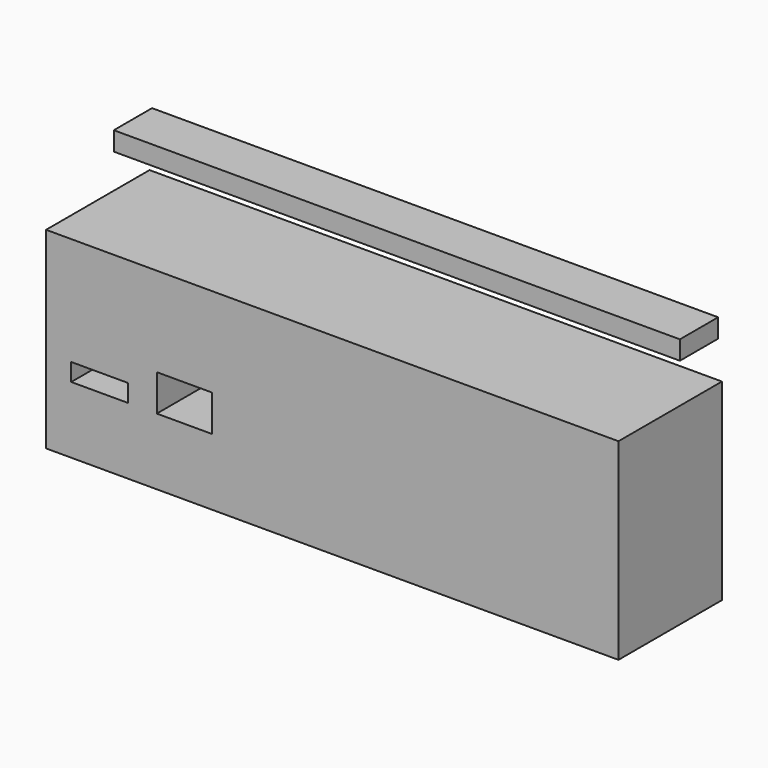
from build123d import *

# Parameters (mm, degrees)
F0_W     = 127.7352720499
F0_H     = 42.9527387023
F0_W_2   = 12.6331597567
F0_H_2   = 3.9303160738
F0_W_3   = 12.3524200171
F0_H_3   = 8.1413685839
F1_DEPTH = 10.16
F2_W     = 126.3315826654
F2_H     = 4.2110495269
F3_DEPTH = 10.668
F4_R     = 3.4268290795
F5_DEPTH = 1.778
F6_DEPTH = 3.5189203918
F7_DEPTH = 28.8555743173


with BuildPart() as f1:
    # F0 (on Front) → F1 (new body)
    with BuildSketch(Plane.XZ):
        Rectangle(F0_W, F0_H)
        with Locations((-51.9363172352, -4.6321580885)):
            Rectangle(F0_W_2, F0_H_2, mode=Mode.SUBTRACT)
        with Locations((-32.9865785316, -2.5266318335)):
            Rectangle(F0_W_3, F0_H_3, mode=Mode.SUBTRACT)
    extrude(amount=F1_DEPTH)

    # F6 (add): a face of the model
    f6_faces = [f1.faces().sort_by_distance(p)[0] for p in [
        (63.867636025, -5.08, 0),
    ]]
    extrude(f6_faces, amount=-F6_DEPTH)

    # F7 (add): a face of the model
    f7_faces = [f1.faces().sort_by_distance(p)[0] for p in [
        (1.1048863511, 0, 0.0907152896),
    ]]
    extrude(f7_faces, amount=-F7_DEPTH)


with BuildPart() as f3:
    # F2 (on Front) → F3 (new body)
    with BuildSketch(Plane.XZ):
        with Locations((-0.1403689384, 31.7232627422)):
            Rectangle(F2_W, F2_H)
    extrude(amount=F3_DEPTH)


with BuildPart() as f5:
    # F4 (on Front) → F5 (new body)
    with BuildSketch(Plane.XZ):
        with Locations((-34.6710011363, -34.3902632594)):
            Circle(F4_R)
    extrude(amount=F5_DEPTH)


solid = Compound([f1.part, f3.part, f5.part])
